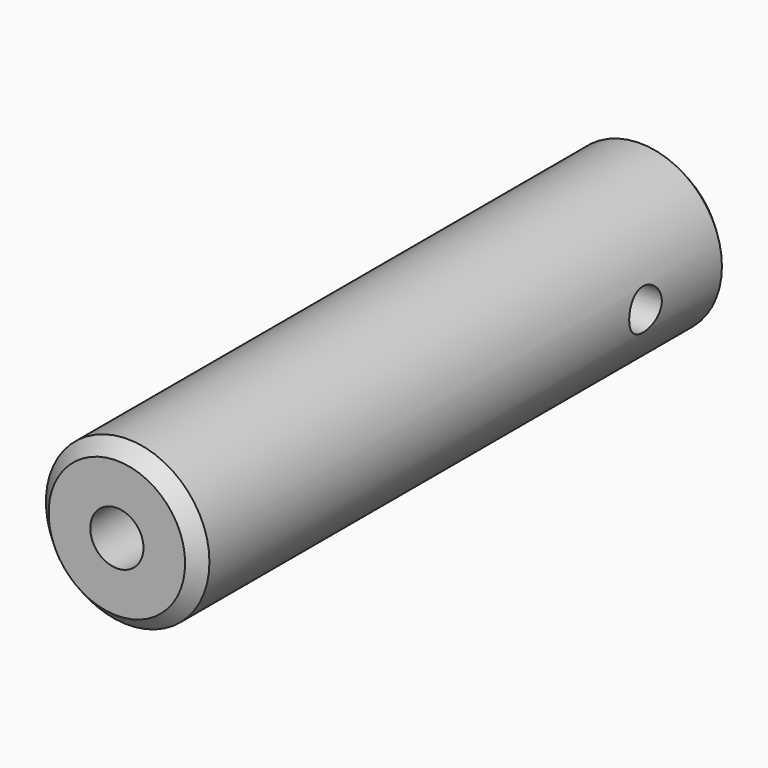
from build123d import *

# Parameters (mm, degrees)
F0_R     = 9.525
F1_DEPTH = 77.7748
F3_D     = 6.35
F3_DEPTH = 77.72908
F3_TIP   = 1.9077324654
F4_SIZE2 = 1.5748
F4_SIZE  = 1.5748
F6_D     = 4.7498
F6_DEPTH = 19.05
F6_TIP   = 1.4269838841
F8_D     = 4.7498
F8_DEPTH = 19.05
F8_START = 3.1750001
F8_TIP   = 1.4269838841


with BuildPart() as f1:
    # F0 (on Front) → F1 (new body)
    with BuildSketch(Plane.XZ):
        Circle(F0_R)
    extrude(amount=F1_DEPTH)

    # F3
    with Locations(Plane(origin=(0, 0, 0), x_dir=(1, 0, 0), z_dir=(0, 1, 0))):
        with Locations((0, 0)):
            Hole(F3_D / 2, depth=F3_DEPTH)
            with Locations((0, 0, -(F3_DEPTH + F3_TIP / 2))):  # 118° drill point
                Cone(0, F3_D / 2, F3_TIP, mode=Mode.SUBTRACT)

    # F4
    f4_edges = [f1.edges().sort_by_distance(p)[0] for p in [
        (-9.525, -77.7748, 0),
        (-9.525, 0, 0),
    ]]
    chamfer(f4_edges, length=F4_SIZE, length2=F4_SIZE2)

    # F6 (one way)
    with BuildSketch(Plane.YZ):
        with Locations((-12.7, 0)):
            Circle(F6_D / 2)
    extrude(amount=-F6_DEPTH, mode=Mode.SUBTRACT)
    with Locations(Plane.YZ):
        with Locations((-12.7, 0)):
            with Locations((0, 0, -(F6_DEPTH + F6_TIP / 2))):  # 118° drill point
                Cone(0, F6_D / 2, F6_TIP, mode=Mode.SUBTRACT)

    # F8
    # its depths count from where the whole tool has entered the part; down to there all is cleared
    with Locations(Plane(origin=(0, 0, 0), x_dir=(0, 1, 0), z_dir=(-1, 0, 0)).offset(-F8_START)):
        with Locations((-12.7, 0)):
            Hole(F8_D / 2, depth=F8_DEPTH)
            with Locations((0, 0, -(F8_DEPTH + F8_TIP / 2))):  # 118° drill point
                Cone(0, F8_D / 2, F8_TIP, mode=Mode.SUBTRACT)


solid = f1.part
